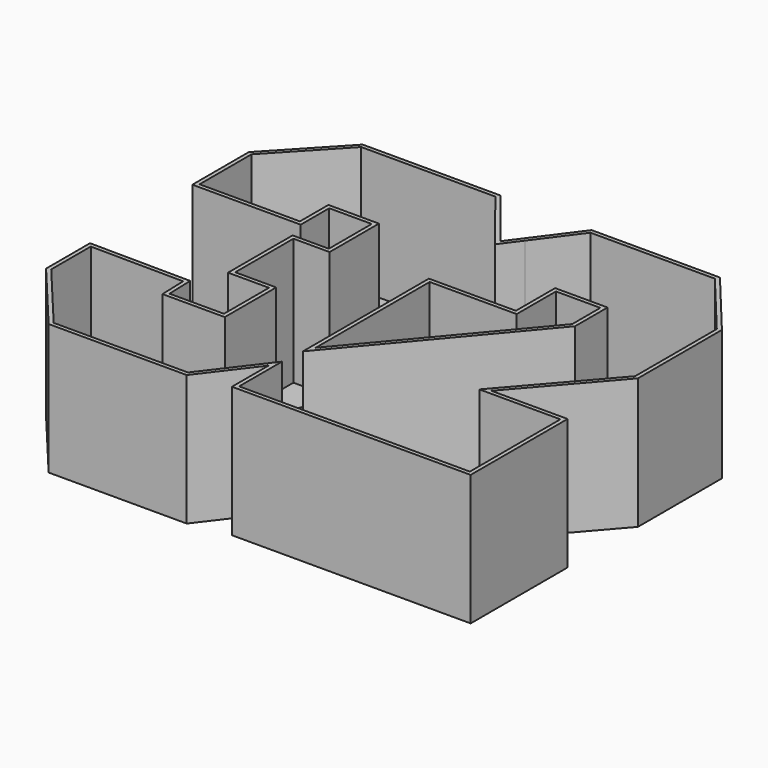
from build123d import *

# Parameters (mm, degrees)
F2_DEPTH = 25
F3_T     = -0.762
F4_R     = 4.8683707858
F4_R_2   = 4.8302186576
F5_DEPTH = 25


with BuildPart() as f2:
    # F1 (on face) → F2 (new body)
    with BuildSketch(Plane.XY):
        Polygon((0, 9.3792136759), (0, 26.2500010431), (-2.1577780027, 28.9547343873), (-9.2274816707, 37.8164723516), (-35.5537720025, 37.8164723516), (-47.3156645894, 25.2887308598), (-47.3156645894, 11.8099646643), (-26.6031436622, 11.8099646643), (-26.6031436622, 18.618395552), (-18.465153873, 18.618395552), (-18.465153873, 8.3549581468), (-25.3857541829, 8.3549581468), (-25.3857541829, -7.0784804411), (-17.5523422658, -7.0784804411), (-17.5523422658, -17.8431384265), (-27.9656872153, -17.8431384265), (-28.13725546, -12.6960789785), (-47.4213697016, -12.5174866989), (-47.4213697016, -23.0192560703), (-35.9249189496, -36.7836914957), (-9.5176594332, -36.7836914957), (-1.8872555811, -26.7647076398), (0, -17.8735964), align=None)
        Polygon((2.1577780027, 29.1542826942), (0, 26.2500010431), (0, 9.3792136759), (16.634831205, 9.3792136759), (16.634831205, 18.7584273517), (25.1292157918, 18.7584273517), (25.1292157918, 12.0337083936), (0, -17.8735964), (-1.8872555811, -26.7647076398), (-1.8872555811, -35.5147086084), (43.7500029802, -35.5147086084), (43.7500029802, -12.3482472258), (29.1650951026, -12.3482472258), (43.7484294293, 4.4654798699), (43.7484294293, 24.5390101341), (32.9454995436, 37.5711143732), (8.4111846728, 37.5711143732), align=None)
    extrude(amount=F2_DEPTH)

    # F3
    f3_openings = [f2.faces().sort_by_distance(p)[0] for p in [
        (-5.53462, 31.298579, 25),
    ]]
    offset(amount=F3_T, openings=f3_openings, kind=Kind.INTERSECTION)

    # F4 (on face) → F5 (cut)
    with BuildSketch(Plane(origin=(0, 0, 0), x_dir=(1, 0, 0), z_dir=(0, 0, -1))):
        with Locations((-14.3409855664, 0)):
            Circle(F4_R)
        with Locations((27.8169624507, 0)):
            Circle(F4_R_2)
    extrude(amount=-F5_DEPTH, mode=Mode.SUBTRACT)


solid = f2.part
